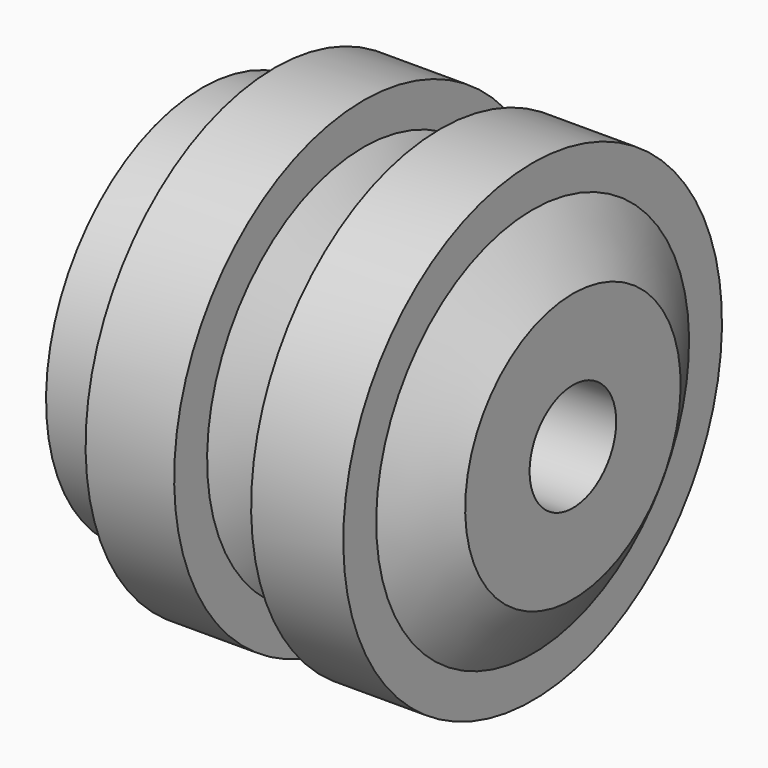
from build123d import *

# Parameters (mm, degrees)
F2_R     = 4.445208
F3_DEPTH = 24.13


with BuildPart() as f1:
    # F0 (on Front) → F1 (revolve)
    with BuildSketch(Plane.XZ):
        Polygon((-47.350701, 46.186872), (-47.350701, 12.787715), (40.163543, 12.787715), (40.163543, 31.812552), (30.651124, 46.186872), (30.651124, 55.910677), (8.878257, 55.910677), (8.878257, 46.186872), (0, 31.812552), (-9.30103, 46.186872), (-9.30103, 55.910677), (-30.228348, 55.910677), (-30.228348, 46.186872), align=None)
    revolve(axis=Axis((7.292859, 0, 0), (1, 0, 0)))

    # F2 (on face) → F3 (cut)
    with BuildSketch(Plane(origin=(-47.350701, 0, 0), x_dir=(0, -1, 0), z_dir=(-1, 0, 0))):
        with Locations((0, 36.251679)):
            Circle(F2_R)
        with Locations((36.251679, 0)):
            Circle(F2_R)
        with Locations((0, -36.251679)):
            Circle(F2_R)
        with Locations((-36.251679, 0)):
            Circle(F2_R)
    extrude(amount=-F3_DEPTH, mode=Mode.SUBTRACT)


solid = f1.part
